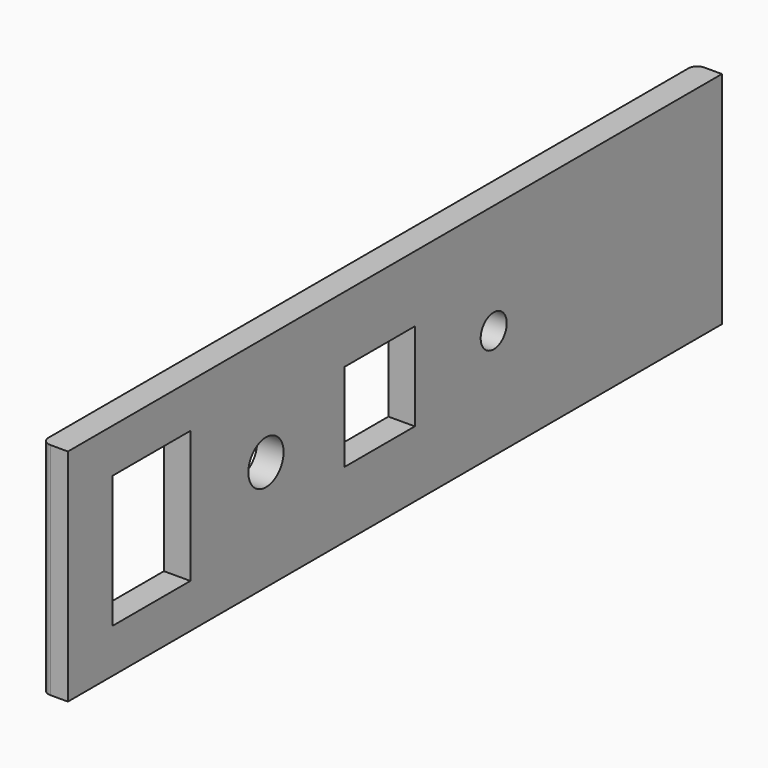
from build123d import *

# Parameters (mm, degrees)
F0_W     = 185.6
F0_H     = 50
F1_DEPTH = 6
F2_W     = 22.1
F2_H     = 30
F3_DEPTH = 6
F4_R     = 5
F5_DEPTH = 6
F6_W     = 20
F6_H     = 20
F7_DEPTH = 6
F8_R     = 3.7
F9_DEPTH = 6
F10_R    = 2


with BuildPart() as f1:
    # F0 (on Right) → F1 (new body)
    with BuildSketch(Plane.YZ):
        Rectangle(F0_W, F0_H)
    extrude(amount=F1_DEPTH)

    # F2 (on face) → F3 (cut, through all)
    with BuildSketch(Plane.YZ.offset(6)):
        with Locations((-69.095318, 0)):
            Rectangle(F2_W, F2_H)
    extrude(amount=-F3_DEPTH, mode=Mode.SUBTRACT)

    # F4 (on face) → F5 (cut, through all)
    with BuildSketch(Plane.YZ.offset(6)):
        with Locations((-36.594901, 0)):
            Circle(F4_R)
    extrude(amount=-F5_DEPTH, mode=Mode.SUBTRACT)

    # F6 (on face) → F7 (cut, through all)
    with BuildSketch(Plane.YZ.offset(6)):
        with Locations((-4.348571, 0)):
            Rectangle(F6_W, F6_H)
    extrude(amount=-F7_DEPTH, mode=Mode.SUBTRACT)

    # F8 (on face) → F9 (cut, through all)
    with BuildSketch(Plane.YZ.offset(6)):
        with Locations((28.03257, 0)):
            Circle(F8_R)
    extrude(amount=-F9_DEPTH, mode=Mode.SUBTRACT)

    # F10
    f10_edges = [f1.edges().sort_by_distance(p)[0] for p in [
        (0, 92.8, 0),
        (0, -92.8, 0),
    ]]
    fillet(f10_edges, radius=F10_R)


solid = f1.part
